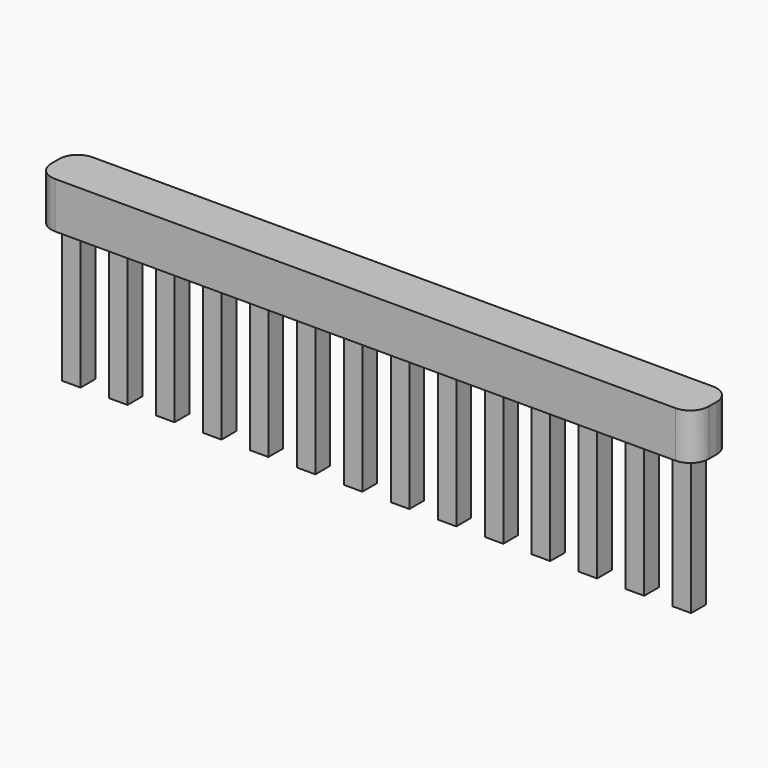
from build123d import *

# Parameters (mm, degrees)
SKETCH002_W         = 35.56
SKETCH002_H         = 2.54
PAD002_DEPTH        = 2.5
FILLET001_R         = 1
SKETCH003_W         = 1
SKETCH003_H         = 1
PAD003_DEPTH        = 7.5
LINEARPATTERN_COUNT = 14
LINEARPATTERN_PITCH = 2.54


with BuildPart() as part:
    # Sketch002 → Pad002 (new body)
    with BuildSketch(Plane.XY):
        with Locations((17.78, 0)):
            Rectangle(SKETCH002_W, SKETCH002_H)
    extrude(amount=-PAD002_DEPTH)

    # Fillet001
    fillet001_edges = [part.edges().sort_by_distance(p)[0] for p in [
        (35.56, 1.27, -1.25),
        (35.56, -1.27, -1.25),
        (0, 1.27, -1.25),
        (0, -1.27, -1.25),
    ]]
    fillet(fillet001_edges, radius=FILLET001_R)

    # Sketch003 (on Face5 of Fillet001) → Pad003 (join)
    with BuildSketch(Plane(origin=(0, 0, -2.5), x_dir=(1, 0, 0), z_dir=(0, 0, -1))):
        with Locations((1.27, 0)):
            Rectangle(SKETCH003_W, SKETCH003_H)
    pad003 = extrude(amount=PAD003_DEPTH)

    # LinearPattern: Pad003 ×14
    with Locations(*[(i * LINEARPATTERN_PITCH, 0, 0) for i in range(1, LINEARPATTERN_COUNT)]):
        add(pad003)


with BuildPart() as part_1:
    # Body001 placement: moved
    add(part.part.moved(Location((0, 7.62, 0))))


with BuildPart() as part_2:
    # Body002 placement: moved
    add(part_1.part.moved(Location((0, -15.24, 0))))


solid = part_2.part
